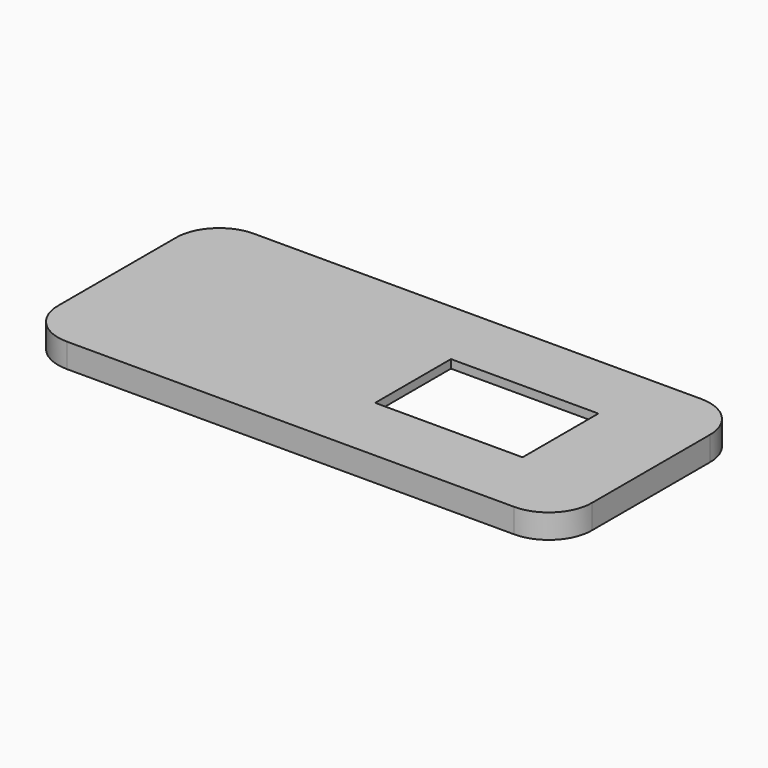
from build123d import *

# Parameters (mm, degrees)
SKETCH004_W      = 28
SKETCH004_H      = 18
EXTRUDE004_DEPTH = 1.6
EXTRUDE003_DEPTH = 3


with BuildPart() as obj1:
    # Sketch004 → Extrude004 (new body)
    with BuildSketch(Plane.XY):
        with BuildLine():
            Line((89.498192, -57.050084), (174.498192, -57.050084))
            ThreePointArc((182.698192, -65.250084), (180.296468, -59.451808), (174.498192, -57.050084))
            Line((182.698192, -65.250084), (182.698192, -93.250084))
            ThreePointArc((174.498192, -101.450084), (180.296468, -99.04836), (182.698192, -93.250084))
            Line((174.498192, -101.450084), (89.498192, -101.450084))
            ThreePointArc((81.298192, -93.250084), (83.699916, -99.04836), (89.498192, -101.450084))
            Line((81.298192, -93.250084), (81.298192, -65.250084))
            ThreePointArc((89.498192, -57.050084), (83.699916, -59.451808), (81.298192, -65.250084))
        make_face()
        with Locations((151.513474, -79.24515)):
            Rectangle(SKETCH004_W, SKETCH004_H, mode=Mode.SUBTRACT)
    extrude(amount=EXTRUDE004_DEPTH)


with BuildPart() as obj1_1:
    # Extrude004 placement: moved
    add(obj1.part.moved(Location((0, 0, 53))))


with BuildPart() as obj2:
    # Sketch003 → Extrude003 (new body)
    with BuildSketch(Plane.XY):
        with BuildLine():
            Line((89.498192, -57.050084), (174.498192, -57.050084))
            ThreePointArc((182.698192, -65.250084), (180.296468, -59.451808), (174.498192, -57.050084))
            Line((182.698192, -65.250084), (182.698192, -93.250084))
            ThreePointArc((174.498192, -101.450084), (180.296468, -99.04836), (182.698192, -93.250084))
            Line((174.498192, -101.450084), (89.498192, -101.450084))
            ThreePointArc((81.298192, -93.250084), (83.699916, -99.04836), (89.498192, -101.450084))
            Line((81.298192, -93.250084), (81.298192, -65.250084))
            ThreePointArc((89.498192, -57.050084), (83.699916, -59.451808), (81.298192, -65.250084))
        make_face()
        with BuildLine():
            Line((89.498192, -99.850084), (174.498192, -99.850084))
            ThreePointArc((174.498192, -99.850084), (179.165097, -97.916989), (181.098192, -93.250084))
            Line((181.098192, -93.250084), (181.098192, -65.250084))
            ThreePointArc((181.098192, -65.250084), (179.165097, -60.583179), (174.498192, -58.650084))
            Line((174.498192, -58.650084), (89.498192, -58.650084))
            ThreePointArc((89.498192, -58.650084), (84.831287, -60.583179), (82.898192, -65.250084))
            Line((82.898192, -65.250084), (82.898192, -93.250084))
            ThreePointArc((82.898192, -93.250084), (84.831287, -97.916989), (89.498192, -99.850084))
        make_face(mode=Mode.SUBTRACT)
    extrude(amount=EXTRUDE003_DEPTH)


with BuildPart() as obj2_1:
    # Extrude003 placement: moved
    add(obj2.part.moved(Location((0, 0, 50))))

    # Fusion001: union obj1
    add(obj1_1.part)


solid = obj2_1.part
